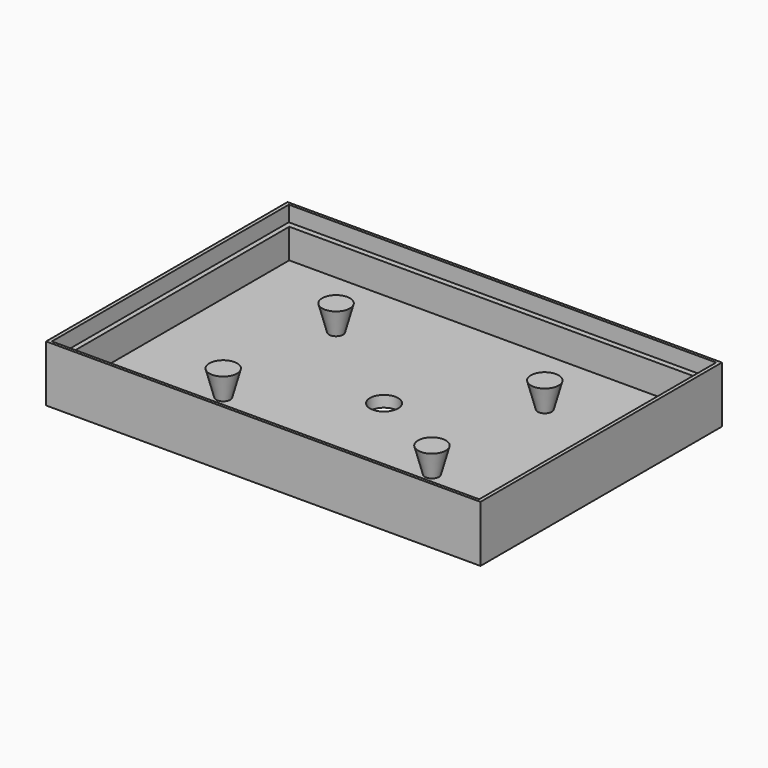
from build123d import *

# Parameters (mm, degrees)
SKETCH_W        = 154
SKETCH_H        = 107
PAD_DEPTH       = 20
SKETCH001_W     = 151.5
SKETCH001_H     = 105
POCKET_DEPTH    = 5.5
SKETCH002_W     = 148
SKETCH002_H     = 101
POCKET001_DEPTH = 10.5
SKETCH003_R     = 5
POCKET002_DEPTH = 4.001
SKETCH004_R     = 2.5
PAD001_DEPTH    = 9
PAD001_TAPER    = -15


with BuildPart() as part:
    # Sketch → Pad (new body)
    with BuildSketch(Plane.XY):
        Rectangle(SKETCH_W, SKETCH_H)
    extrude(amount=PAD_DEPTH)

    # Sketch001 (on Face6 of Pad) → Pocket (cut)
    with BuildSketch(Plane.XY.offset(20)):
        Rectangle(SKETCH001_W, SKETCH001_H)
    extrude(amount=-POCKET_DEPTH, mode=Mode.SUBTRACT)

    # Sketch002 (on Face11 of Pocket) → Pocket001 (cut)
    with BuildSketch(Plane.XY.offset(14.5)):
        Rectangle(SKETCH002_W, SKETCH002_H)
    extrude(amount=-POCKET001_DEPTH, mode=Mode.SUBTRACT)

    # Sketch003 (on Face16 of Pocket001) → Pocket002 (cut, through all)
    with BuildSketch(Plane.XY.offset(4)):
        Circle(SKETCH003_R)
    extrude(amount=-POCKET002_DEPTH, mode=Mode.SUBTRACT)

    # Sketch004 (on Face12 of Pocket002) → Pad001 (join)
    with BuildSketch(Plane.XY.offset(4)):
        with Locations((-37, 25)):
            Circle(SKETCH004_R)
        with Locations((37, 25)):
            Circle(SKETCH004_R)
        with Locations((37, -25)):
            Circle(SKETCH004_R)
        with Locations((-37, -25)):
            Circle(SKETCH004_R)
    extrude(amount=PAD001_DEPTH, taper=PAD001_TAPER)


solid = part.part
